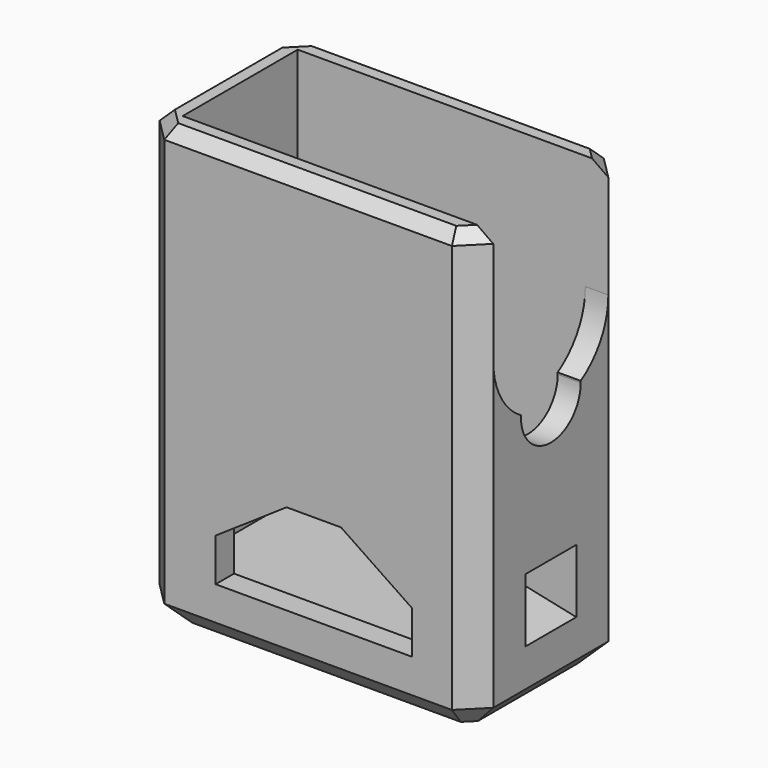
from build123d import *

# Parameters (mm, degrees)
F0_W      = 29
F0_H      = 16.5
F1_DEPTH  = 38.5
F2_T      = -2
F3_DEPTH  = 2.25
F4_SIZE   = 2
F5_SIZE   = 2
F6_SIZE   = 1
F8_DEPTH  = 16.501
F9_W      = 12.5
F9_H      = 1
F10_DEPTH = 2
F11_R     = 2
F12_DEPTH = 2.001
F13_W     = 7.54
F13_H     = 7.25
F13_R     = 1.1
F14_DEPTH = 4.35
F17_W     = 5.538
F17_H     = 4.583
F15_W     = 5.538
F15_H     = 5.533


with BuildPart() as f1:
    # F0 (on Top) → F1 (new body)
    with BuildSketch(Plane.XY):
        with Locations((14.5, 8.25)):
            Rectangle(F0_W, F0_H)
    extrude(amount=F1_DEPTH)

    # F2
    f2_openings = [f1.faces().sort_by_distance(p)[0] for p in [
        (14.5, 8.25, 38.5),
    ]]
    offset(amount=F2_T, openings=f2_openings)

    # F3 (add): a face of the model
    f3_faces = [f1.faces().sort_by_distance(p)[0] for p in [
        (14.5, 8.25, 2),
    ]]
    extrude(f3_faces, amount=F3_DEPTH)

    # F4
    f4_edges = [f1.edges().sort_by_distance(p)[0] for p in [
        (29, 0, 19.25),
        (0, 0, 19.25),
        (29, 16.5, 19.25),
        (0, 16.5, 19.25),
    ]]
    chamfer(f4_edges, length=F4_SIZE)

    # F5
    f5_edges = [f1.edges().sort_by_distance(p)[0] for p in [
        (0, 8.25, 0),
        (1, 15.5, 0),
        (1, 1, 0),
        (14.5, 16.5, 0),
        (14.5, 0, 0),
        (28, 15.5, 0),
        (28, 1, 0),
        (29, 8.25, 0),
    ]]
    chamfer(f5_edges, length=F5_SIZE)

    # F6
    f6_edges = [f1.edges().sort_by_distance(p)[0] for p in [
        (14.5, 0, 38.5),
        (1, 1, 38.5),
        (0, 8.25, 38.5),
        (1, 15.5, 38.5),
        (14.5, 16.5, 38.5),
        (28, 15.5, 38.5),
        (29, 8.25, 38.5),
        (28, 1, 38.5),
    ]]
    chamfer(f6_edges, length=F6_SIZE)

    # F7 (on face) → F8 (cut, through all)
    with BuildSketch(Plane.XZ):
        Polygon((6.464, 8.664), (6.464, 4.94), (23.536, 4.94), (23.536, 8.664), (17.364, 12.834), (12.635, 12.834), align=None)
    extrude(amount=-F8_DEPTH, mode=Mode.SUBTRACT)

    # F9 (on face) → F10 (cut, through all)
    with BuildSketch(Plane.YZ.offset(29)):
        with BuildLine():
            ThreePointArc((5.0038961688, 23.1590909091), (8.25, 22.25), (11.4961038312, 23.1590909091))
            ThreePointArc((11.4961038312, 23.1590909091), (8.25, 26.25), (5.0038961688, 23.1590909091))
        make_face()
        with BuildLine():
            ThreePointArc((5.0038961688, 23.1590909091), (8.1704306945, 19.7509741882), (11.5, 23))
            ThreePointArc((11.5, 23), (11.4990258118, 23.0795693055), (11.4961038312, 23.1590909091))
            ThreePointArc((11.4961038312, 23.1590909091), (8.25, 22.25), (5.0038961688, 23.1590909091))
        make_face()
        with BuildLine():
            ThreePointArc((5.0038961688, 23.1590909091), (8.25, 26.25), (11.4961038312, 23.1590909091))
            ThreePointArc((11.4961038312, 23.1590909091), (13.6975062618, 25.4361502113), (14.5, 28.5))
            Line((14.5, 28.5), (2, 28.5))
            ThreePointArc((2, 28.5), (2.8024937382, 25.4361502113), (5.0038961688, 23.1590909091))
        make_face()
        with BuildLine():
            Line((2, 28.5), (14.5, 28.5))
            ThreePointArc((14.5, 28.5), (8.25, 34.75), (2, 28.5))
        make_face()
        with BuildLine():
            ThreePointArc((2, 28.5), (8.25, 34.75), (14.5, 28.5))
            Line((14.5, 28.5), (14.5, 37.5))
            Line((14.5, 37.5), (2, 37.5))
            Line((2, 37.5), (2, 28.5))
        make_face()
        with Locations((8.25, 38)):
            Rectangle(F9_W, F9_H)
    extrude(amount=-F10_DEPTH, mode=Mode.SUBTRACT)

    # F11 (on face) → F12 (cut, through all)
    with BuildSketch(Plane.YZ.offset(2)):
        with Locations((8.25, 23)):
            Circle(F11_R)
    extrude(amount=-F12_DEPTH, mode=Mode.SUBTRACT)

    # F13 (on face) → F14 (join)
    with BuildSketch(Plane(origin=(27, 0, 0), x_dir=(0, -1, 0), z_dir=(-1, 0, 0))):
        with Locations((-8.25, 7.875)):
            Rectangle(F13_W, F13_H)
        with Locations((-8.25, 9)):
            Circle(F13_R, mode=Mode.SUBTRACT)
    extrude(amount=F14_DEPTH)

    # F17 (on offset) → F18 section 0
    with BuildSketch(Plane.YZ.offset(24.55)):
        with Locations((8.25, 8.5135)):
            Rectangle(F17_W, F17_H)
    # F15 (on face) → F18 section 1
    with BuildSketch(Plane.YZ.offset(29)):
        with Locations((8.25, 8.0385)):
            Rectangle(F15_W, F15_H)
    loft(mode=Mode.SUBTRACT)


solid = f1.part
